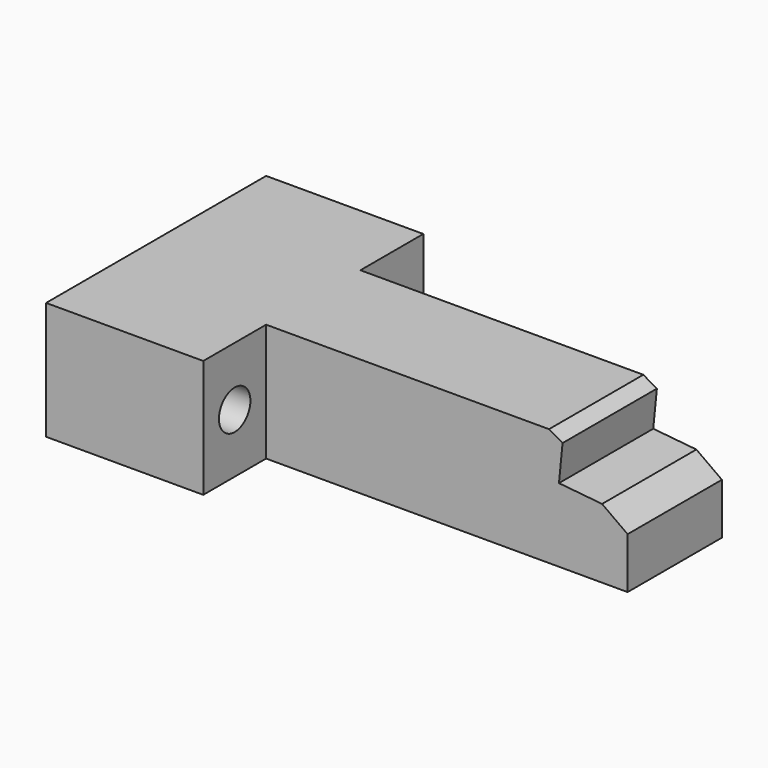
from build123d import *

# Parameters (mm, degrees)
F0_W     = 20
F0_H     = 7.5
F1_DEPTH = 35
F2_W     = 35.998606
F2_H     = 10
F2_W_2   = 10.001394
F3_DEPTH = 15.001
F4_R     = 2.5
F5_DEPTH = 20.001
F6_R     = 2
F7_DEPTH = 6


with BuildPart() as f1:
    # F0 (on Front) → F1 (new body)
    with BuildSketch(Plane.XZ):
        with Locations((-67.633515, -45.922072)):
            Rectangle(F0_W, F0_H)
        with Locations((-67.633515, -38.422072)):
            Rectangle(F0_W, F0_H)
        Polygon((-11.633515, -49.672072), (-11.633515, -43.181855), (-14.883661, -40.850213), (-20.370748, -40.306831), (-19.911289, -35.667204), (-21.634909, -34.672072), (-57.633515, -34.672072), (-57.633515, -42.172072), (-57.633515, -49.672072), align=None)
    extrude(amount=F1_DEPTH)

    # F2 (on face) → F3 (cut, through all)
    with BuildSketch(Plane.XY.offset(-34.672072)):
        with Locations((-39.634212, -5)):
            Rectangle(F2_W, F2_H)
        with Locations((-16.634212, -30)):
            Rectangle(F2_W_2, F2_H)
        with Locations((-16.634212, -5)):
            Rectangle(F2_W_2, F2_H)
        with Locations((-39.634212, -30)):
            Rectangle(F2_W, F2_H)
    extrude(amount=-F3_DEPTH, mode=Mode.SUBTRACT)

    # F4 (on face) → F5 (cut, through all)
    with BuildSketch(Plane.YZ.offset(-57.633515)):
        with Locations((-30, -42.172072)):
            Circle(F4_R)
        with Locations((-5, -42.172072)):
            Circle(F4_R)
    extrude(amount=-F5_DEPTH, mode=Mode.SUBTRACT)

    # F6 (on face) → F7 (cut)
    with BuildSketch(Plane(origin=(-77.633515, 0, 0), x_dir=(0, -1, 0), z_dir=(-1, 0, 0))):
        with Locations((12.5, -42.172072)):
            Circle(F6_R)
        with Locations((22.5, -42.172072)):
            Circle(F6_R)
    extrude(amount=-F7_DEPTH, mode=Mode.SUBTRACT)


solid = f1.part
